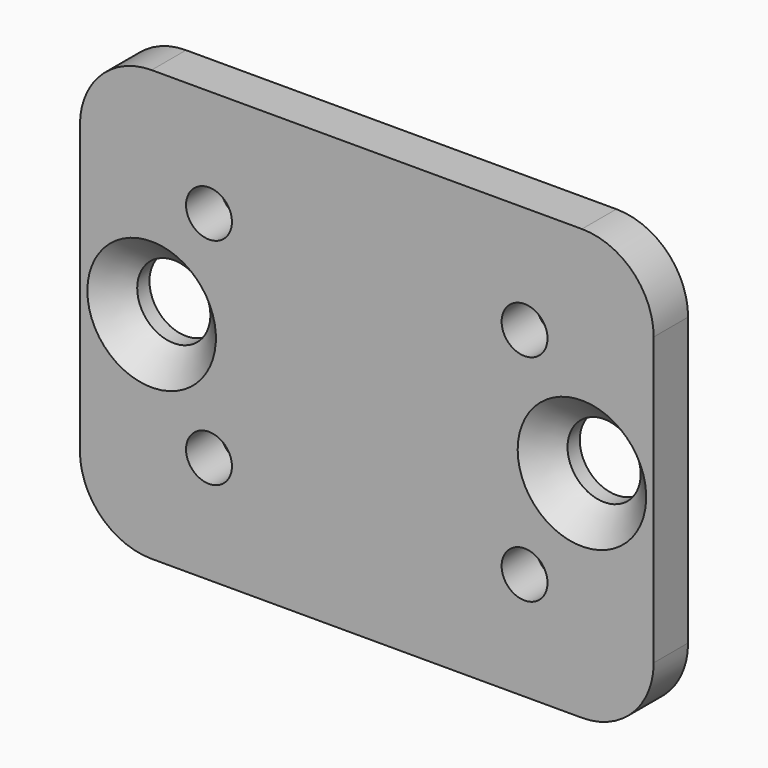
from build123d import *

# Parameters (mm, degrees)
F0_W           = 40
F0_H           = 30
F1_DEPTH       = 3
F3_D           = 3.2
F4_D           = 5.1
F4_CSINK_D     = 8.96
F4_CSINK_ANGLE = 90
F5_R           = 5


with BuildPart() as f1:
    # F0 (on Front) → F1 (new body)
    with BuildSketch(Plane.XZ):
        Rectangle(F0_W, F0_H)
    extrude(amount=-F1_DEPTH)

    # F3 (through all)
    with Locations(Plane.XZ):
        with Locations((-11, 7.5), (-11, -7.5), (11, 7.5), (11, -7.5)):
            Hole(F3_D / 2)

    # F4 (through all)
    with Locations(Plane.XZ):
        with Locations((-15, 0), (15, 0)):
            CounterSinkHole(F4_D / 2, F4_CSINK_D / 2, counter_sink_angle=F4_CSINK_ANGLE)

    # F5
    f5_edges = [f1.edges().sort_by_distance(p)[0] for p in [
        (20, 1.5, 15),
        (20, 1.5, -15),
        (-20, 1.5, -15),
        (-20, 1.5, 15),
    ]]
    fillet(f5_edges, radius=F5_R)


solid = f1.part
